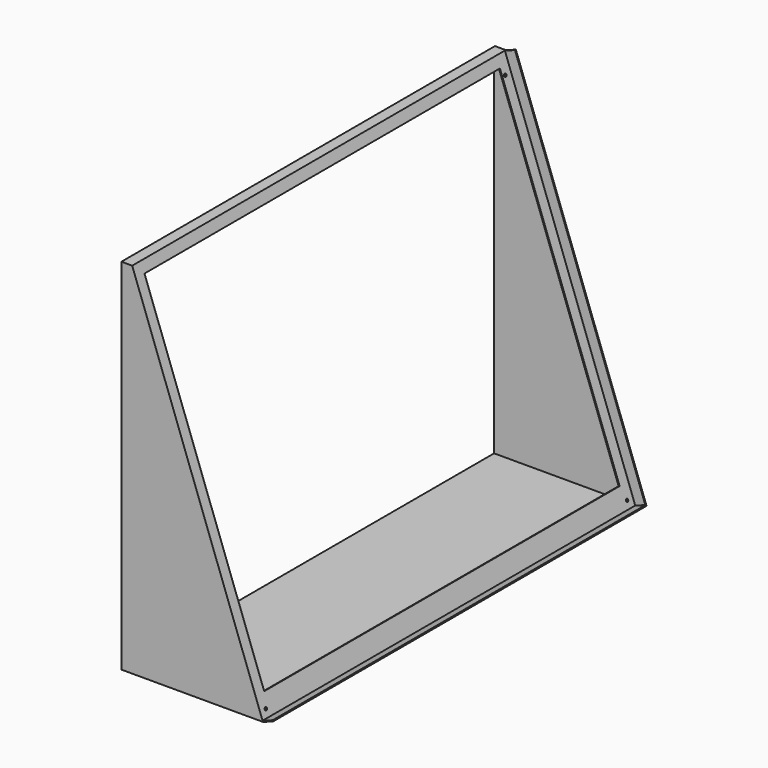
from build123d import *

# Parameters (mm, degrees)
F1_DEPTH = 650
F2_T     = -3
F3_W     = 1237
F3_H     = 974.1777724759
F4_DEPTH = 3
F5_W     = 3
F5_H     = 1061.1777724759
F6_DEPTH = 30
F7_R     = 4
F8_DEPTH = 25


with BuildPart() as f1:
    # F0 (on Front) → F1 (new body, symmetric)
    with BuildSketch(Plane.XZ):
        Polygon((-393.9702342662, 0), (0, 0), (28.1907786236, 10.2606042998), (27.1647181936, 13.0796821621), (-1.02606043, 2.8190778624), (-363.9702342662, 1000), (-393.9702342662, 1000), align=None)
    extrude(amount=F1_DEPTH, both=True)

    # F2
    f2_openings = [f1.faces().sort_by_distance(p)[0] for p in [
        (-393.970234, 0, 500),
    ]]
    offset(amount=F2_T, openings=f2_openings)

    # F3 (on face) → F4 (cut)
    with BuildSketch(Plane(origin=(0, 0, 0), x_dir=(0, 1, 0), z_dir=(0.9396926208, 0, 0.3420201433))):
        with Locations((-1.5, 547.088886238)):
            Rectangle(F3_W, F3_H)
    extrude(amount=-F4_DEPTH, mode=Mode.SUBTRACT)

    # F5 (on face) → F6 (join)
    with BuildSketch(Plane(origin=(0, 0, 0), x_dir=(0, 1, 0), z_dir=(0.9396926208, 0, 0.3420201433))):
        with Locations((648.5, 533.588886238)):
            Rectangle(F5_W, F5_H)
    extrude(amount=F6_DEPTH)

    # F7 (on face) → F8 (cut)
    with BuildSketch(Plane(origin=(0, 0, 0), x_dir=(0, 1, 0), z_dir=(0.9396926208, 0, 0.3420201433))):
        with Locations((627, 23)):
            Circle(F7_R)
        with Locations((-630, 23)):
            Circle(F7_R)
        with Locations((627, 1014.1777724759)):
            Circle(F7_R)
    extrude(amount=-F8_DEPTH, mode=Mode.SUBTRACT)


solid = f1.part
